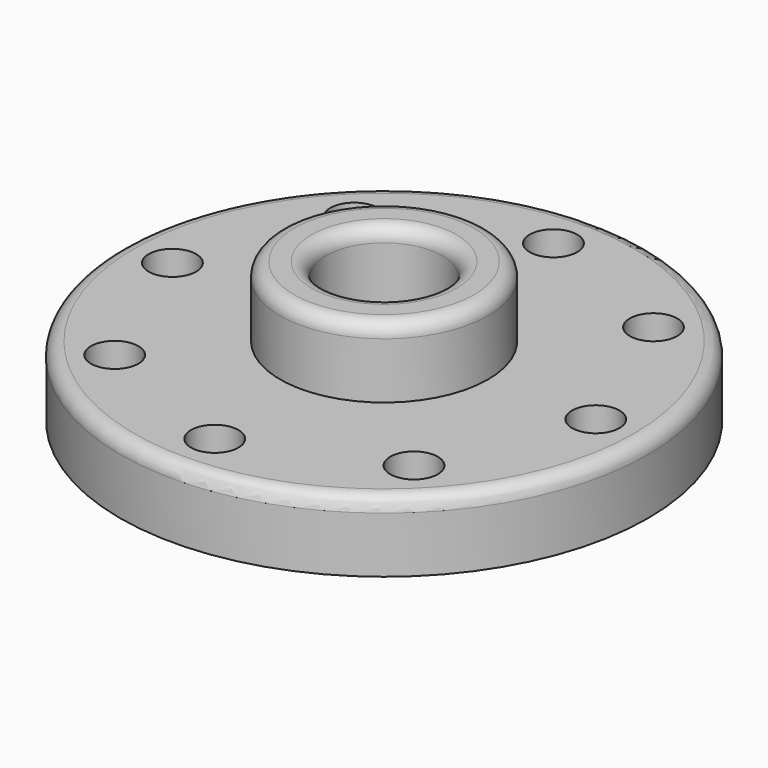
from build123d import *

# Parameters (mm, degrees)
F0_R     = 37.69412
F1_DEPTH = 50.8
F0_R_2   = 95.718309
F2_DEPTH = 25.4
F3_R     = 8.619193
F4_DEPTH = 25.401
F5_R     = 21.217436
F6_DEPTH = 50.801
F7_R     = 5.08


with BuildPart() as f1:
    # F0 (on Top) → F1 (new body)
    with BuildSketch(Plane.XY):
        Circle(F0_R)
    extrude(amount=F1_DEPTH)

    # F0 (on Top) → F2 (join)
    with BuildSketch(Plane.XY):
        Circle(F0_R_2)
        Circle(F0_R, mode=Mode.SUBTRACT)
    extrude(amount=F2_DEPTH)

    # F3 (on face) → F4 (cut, through all)
    with BuildSketch(Plane.XY.offset(25.4)):
        with Locations((0, 76.732688)):
            Circle(F3_R)
        with Locations((-54.258204, 54.258204)):
            Circle(F3_R)
        with Locations((-76.732688, 0)):
            Circle(F3_R)
        with Locations((-54.258204, -54.258204)):
            Circle(F3_R)
        with Locations((0, -76.732688)):
            Circle(F3_R)
        with Locations((54.258204, -54.258204)):
            Circle(F3_R)
        with Locations((76.732688, 0)):
            Circle(F3_R)
        with Locations((54.258204, 54.258204)):
            Circle(F3_R)
    extrude(amount=-F4_DEPTH, mode=Mode.SUBTRACT)

    # F5 (on face) → F6 (cut, through all)
    with BuildSketch(Plane.XY.offset(50.8)):
        Circle(F5_R)
    extrude(amount=-F6_DEPTH, mode=Mode.SUBTRACT)

    # F7
    f7_edges = [f1.edges().sort_by_distance(p)[0] for p in [
        (-95.718309, 0, 25.4),
        (-37.69412, 0, 50.8),
        (-21.217436, 0, 50.8),
    ]]
    fillet(f7_edges, radius=F7_R)


solid = f1.part
